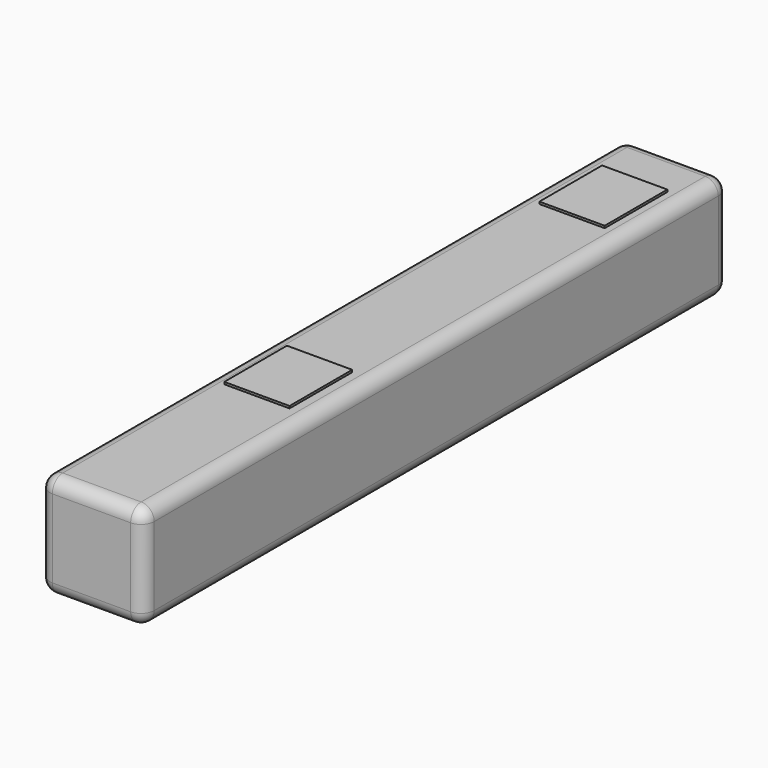
from build123d import *

# Parameters (mm, degrees)
F0_W     = 40
F0_H     = 40
F1_DEPTH = 280
F2_W     = 25
F2_H     = 30
F3_DEPTH = 20
F4_R     = 5


with BuildPart() as f1:
    # F0 (on Front) → F1 (new body)
    with BuildSketch(Plane.XZ):
        with Locations((-1e-06, -0.828695)):
            Rectangle(F0_W, F0_H)
    extrude(amount=F1_DEPTH)

    # F2 (on Top) → F3 (join)
    with BuildSketch(Plane.XY):
        with Locations((-1e-06, -35)):
            Rectangle(F2_W, F2_H)
        with Locations((-0.669636, -184.998505)):
            Rectangle(F2_W, F2_H)
    extrude(amount=F3_DEPTH)

    # F4
    f4_edges = [f1.edges().sort_by_distance(p)[0] for p in [
        (-1e-06, 0, 19.171305),
        (-20.000001, 0, -0.828695),
        (-1e-06, 0, -20.828695),
        (19.999999, 0, -0.828695),
        (19.999999, -140, -20.828695),
        (19.999999, -140, 19.171305),
        (19.999999, -280, -0.828695),
        (-20.000001, -140, -20.828695),
        (-1e-06, -280, -20.828695),
        (-20.000001, -140, 19.171305),
        (-20.000001, -280, -0.828695),
        (-1e-06, -280, 19.171305),
    ]]
    fillet(f4_edges, radius=F4_R)


solid = f1.part
